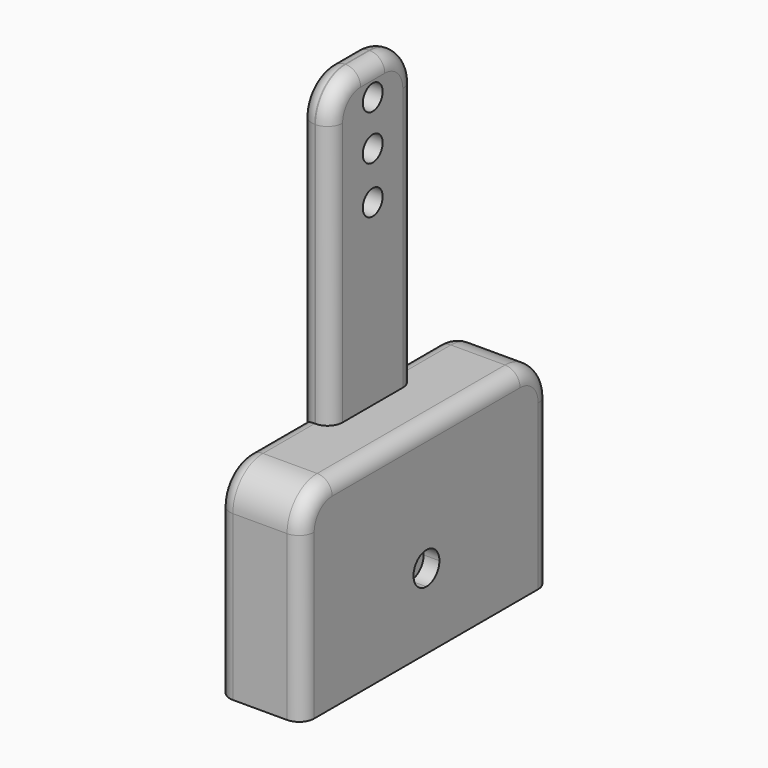
from build123d import *

# Parameters (mm, degrees)
F0_W          = 11.2
F0_H          = 41.2
F1_DEPTH      = 25
F3_DEPTH      = 2.1
F3_DEPTH_BACK = 9.1
F2_R          = 1.65
F4_DEPTH      = 2
F4_DEPTH_BACK = 2.1
F5_R          = 5
F6_R          = 2
F8_DEPTH      = 2.101
F8_DEPTH_BACK = 9.101


with BuildPart() as f1:
    # F0 (on Top) → F1 (new body)
    with BuildSketch(Plane.XY):
        with Locations((3.5, 18.5)):
            Rectangle(F0_W, F0_H)
        Polygon((7, 0), (0, 0), (0, 18.5), (0, 37), (7, 37), (7, 18.5), align=None, mode=Mode.SUBTRACT)
    extrude(amount=F1_DEPTH)

    # F2 (on Right) → F3 (join, two sides)
    with BuildSketch(Plane.YZ) as f3_sk:
        Polygon((-2.1, 26.8), (-2.1, 25), (39.1, 25), (39.1, 26.8), (25.5, 26.8), (18.5, 26.8), (11.5, 26.8), align=None)
    extrude(amount=-F3_DEPTH)
    extrude(f3_sk.sketch, amount=F3_DEPTH_BACK)

    # F2 (on Right) → F4 (join, two sides)
    with BuildSketch(Plane.YZ) as f4_sk:
        with BuildLine():
            Line((11.5, 61.8), (11.5, 26.8))
            Line((11.5, 26.8), (18.5, 26.8))
            Line((18.5, 26.8), (25.5, 26.8))
            Line((25.5, 26.8), (25.5, 61.8))
            ThreePointArc((25.5, 61.8), (24.0355339059, 65.3355339059), (20.5, 66.8))
            Line((20.5, 66.8), (16.5, 66.8))
            ThreePointArc((16.5, 66.8), (12.9644660941, 65.3355339059), (11.5, 61.8))
        make_face()
        with Locations((18.5, 50.5218207836)):
            Circle(F2_R, mode=Mode.SUBTRACT)
        with Locations((18.5, 56.8)):
            Circle(F2_R, mode=Mode.SUBTRACT)
        with Locations((18.5, 62.7918988466)):
            Circle(F2_R, mode=Mode.SUBTRACT)
    extrude(amount=F4_DEPTH)
    extrude(f4_sk.sketch, amount=-F4_DEPTH_BACK)

    # F5
    f5_edges = [f1.edges().sort_by_distance(p)[0] for p in [
        (3.5, -2.1, 26.8),
        (3.5, 39.1, 26.8),
    ]]
    fillet(f5_edges, radius=F5_R)

    # F6
    f6_edges = [f1.edges().sort_by_distance(p)[0] for p in [
        (-2.1, -2.1, 10.9),
        (-2.1, 39.1, 10.9),
        (9.1, -2.1, 10.9),
        (-2.1, 11.5, 44.3),
        (2, 11.5, 44.3),
    ]]
    fillet(f6_edges, radius=F6_R)

    # F7 (on Right) → F8 (cut, two sides)
    with BuildSketch(Plane.YZ) as f8_sk:
        with BuildLine():
            ThreePointArc((18.55, 7.85), (20.0702795796, 8.4797204204), (20.7, 10))
            ThreePointArc((20.7, 10), (17.0297204204, 11.5202795796), (18.55, 7.85))
        make_face()
    extrude(amount=-F8_DEPTH, mode=Mode.SUBTRACT)
    extrude(f8_sk.sketch, amount=F8_DEPTH_BACK, mode=Mode.SUBTRACT)


solid = f1.part
